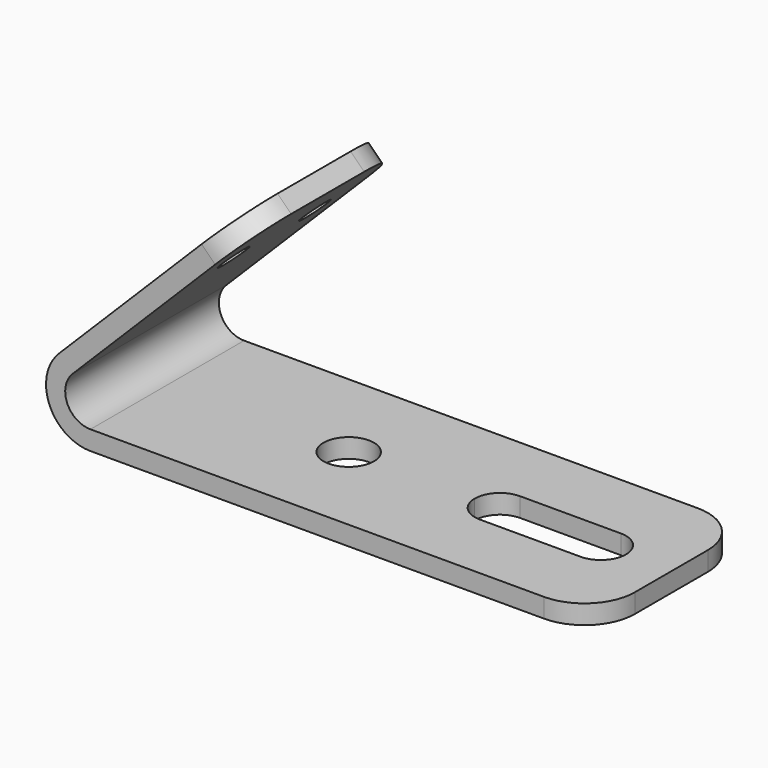
from build123d import *

# Parameters (mm, degrees)
F1_DEPTH = 483.87
F2_R     = 127
F3_R     = 38.1
F4_DEPTH = 48.26
F5_R     = 63.5
F6_DEPTH = 48.26


with BuildPart() as f1:
    # F0 (on Front) → F1 (new body)
    with BuildSketch(Plane.XZ):
        with BuildLine():
            Line((596.980911, -24.087717), (596.980911, 24.172283))
            Line((596.980911, 24.172283), (-673.019089, 24.172283))
            ThreePointArc((-673.019089, 24.172283), (-731.685439, 63.371885), (-717.92037, 132.573564))
            Line((-717.92037, 132.573564), (-268.907564, 581.58637))
            Line((-268.907564, 581.58637), (-303.032537, 615.711343))
            Line((-303.032537, 615.711343), (-752.045343, 166.698537))
            ThreePointArc((-752.045343, 166.698537), (-776.271866, 44.903583), (-673.019089, -24.087717))
            Line((-673.019089, -24.087717), (596.980911, -24.087717))
        make_face()
    extrude(amount=-F1_DEPTH)

    # F2
    f2_edges = [f1.edges().sort_by_distance(p)[0] for p in [
        (596.980911, 0, 0.042283),
        (596.980911, 483.87, 0.042283),
        (-285.97005, 0, 598.648857),
        (-285.97005, 483.87, 598.648857),
    ]]
    fillet(f2_edges, radius=F2_R)

    # F3 (on face) → F4 (cut, through all)
    with BuildSketch(Plane(origin=(-459.37194, 0, 459.37194), x_dir=(0, -1, 0), z_dir=(-0.707107, 0, 0.707107))):
        with Locations((-369.57, 30.597304)):
            Circle(F3_R)
        with Locations((-114.3, 30.597304)):
            Circle(F3_R)
    extrude(amount=-F4_DEPTH, mode=Mode.SUBTRACT)

    # F5 (on face) → F6 (cut, through all)
    with BuildSketch(Plane.XY.offset(24.172283)):
        with Locations((-215.819089, 241.935)):
            Circle(F5_R)
        with BuildLine():
            ThreePointArc((419.180911, 178.435), (464.082192, 197.033719), (482.680911, 241.935))
            Line((482.680911, 241.935), (101.680911, 241.935))
            ThreePointArc((101.680911, 241.935), (120.27963, 197.033719), (165.180911, 178.435))
            Line((165.180911, 178.435), (419.180911, 178.435))
        make_face()
        with BuildLine():
            Line((101.680911, 241.935), (482.680911, 241.935))
            ThreePointArc((482.680911, 241.935), (464.082192, 286.836281), (419.180911, 305.435))
            Line((419.180911, 305.435), (165.180911, 305.435))
            ThreePointArc((165.180911, 305.435), (120.27963, 286.836281), (101.680911, 241.935))
        make_face()
    extrude(amount=-F6_DEPTH, mode=Mode.SUBTRACT)


solid = f1.part
